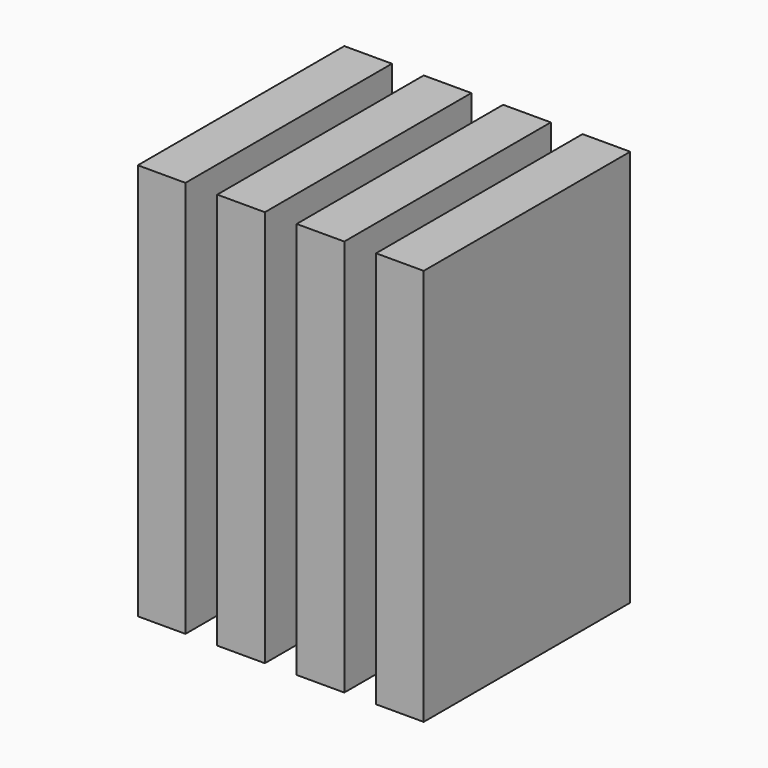
from build123d import *

# Parameters (mm, degrees)
BOX017_W     = 1.2
BOX017_H     = 6.5
BOX017_DEPTH = 10
BOX016_W     = 1.2
BOX016_H     = 6.5
BOX016_DEPTH = 10
BOX015_W     = 1.2
BOX015_H     = 6.5
BOX015_DEPTH = 10
BOX018_W     = 1.2
BOX018_H     = 6.5
BOX018_DEPTH = 10


with BuildPart() as cube017:
    # Box017 → Box017 (new body)
    with BuildSketch(Plane(origin=(4, -3.25, 0), x_dir=(1, 0, 0), z_dir=(0, 0, 1))):
        with Locations((0.6, 3.25)):
            Rectangle(BOX017_W, BOX017_H)
    extrude(amount=BOX017_DEPTH)


with BuildPart() as cube016:
    # Box016 → Box016 (new body)
    with BuildSketch(Plane(origin=(2, -3.25, 0), x_dir=(1, 0, 0), z_dir=(0, 0, 1))):
        with Locations((0.6, 3.25)):
            Rectangle(BOX016_W, BOX016_H)
    extrude(amount=BOX016_DEPTH)


with BuildPart() as cube015:
    # Box015 → Box015 (new body)
    with BuildSketch(Plane(origin=(0, -3.25, 0), x_dir=(1, 0, 0), z_dir=(0, 0, 1))):
        with Locations((0.6, 3.25)):
            Rectangle(BOX015_W, BOX015_H)
    extrude(amount=BOX015_DEPTH)


with BuildPart() as fusion003:
    # Box018 → Box018 (new body)
    with BuildSketch(Plane(origin=(6, -3.25, 0), x_dir=(1, 0, 0), z_dir=(0, 0, 1))):
        with Locations((0.6, 3.25)):
            Rectangle(BOX018_W, BOX018_H)
    extrude(amount=BOX018_DEPTH)

    # Fusion003: union Cube017, Cube016, Cube015
    add(cube017.part)
    add(cube016.part)
    add(cube015.part)


solid = fusion003.part
